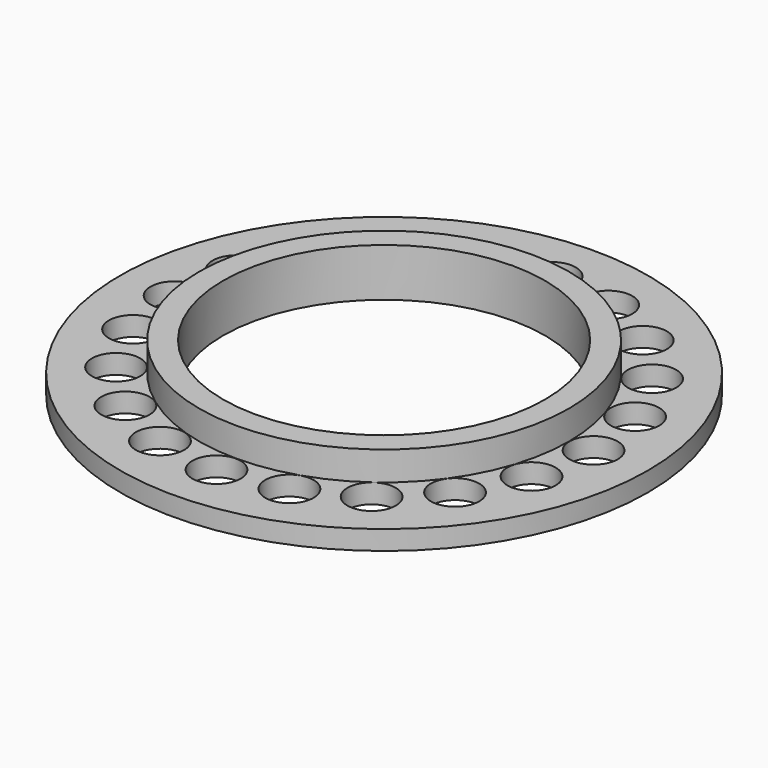
from build123d import *

# Parameters (mm, degrees)
F0_R     = 16.4
F0_R_2   = 11.5
F1_DEPTH = 1.2
F0_R_3   = 10
F2_DEPTH = 3
F3_R     = 1.500919
F4_DEPTH = 25


with BuildPart() as f1:
    # F0 (on Top) → F1 (new body)
    with BuildSketch(Plane.XY):
        with Locations((-45.598116, 14.504182)):
            Circle(F0_R)
        with Locations((-45.598116, 14.504182)):
            Circle(F0_R_2, mode=Mode.SUBTRACT)
    extrude(amount=F1_DEPTH)

    # F0 (on Top) → F2 (join)
    with BuildSketch(Plane.XY):
        with Locations((-45.598116, 14.504182)):
            Circle(F0_R_2)
        with Locations((-45.598116, 14.504182)):
            Circle(F0_R_3, mode=Mode.SUBTRACT)
    extrude(amount=F2_DEPTH)

    # F3 (on face) → F4 (cut)
    with BuildSketch(Plane.XY.offset(1.2)):
        with Locations((-45.598116, 27.51958)):
            Circle(F3_R)
        with Locations((-49.620095, 26.882561)):
            Circle(F3_R)
        with Locations((-53.248375, 25.03386)):
            Circle(F3_R)
        with Locations((-56.127794, 22.154441)):
            Circle(F3_R)
        with Locations((-57.976495, 18.526161)):
            Circle(F3_R)
        with Locations((-58.613514, 14.504182)):
            Circle(F3_R)
        with Locations((-57.976495, 10.482203)):
            Circle(F3_R)
        with Locations((-56.127794, 6.853923)):
            Circle(F3_R)
        with Locations((-53.248375, 3.974504)):
            Circle(F3_R)
        with Locations((-49.620095, 2.125803)):
            Circle(F3_R)
        with Locations((-45.598116, 1.488784)):
            Circle(F3_R)
        with Locations((-41.576137, 2.125803)):
            Circle(F3_R)
        with Locations((-37.947857, 3.974504)):
            Circle(F3_R)
        with Locations((-35.068438, 6.853923)):
            Circle(F3_R)
        with Locations((-33.219737, 10.482203)):
            Circle(F3_R)
        with Locations((-32.582718, 14.504182)):
            Circle(F3_R)
        with Locations((-33.219737, 18.526161)):
            Circle(F3_R)
        with Locations((-35.068438, 22.154441)):
            Circle(F3_R)
        with Locations((-37.947857, 25.03386)):
            Circle(F3_R)
        with Locations((-41.576137, 26.882561)):
            Circle(F3_R)
    extrude(amount=-F4_DEPTH, mode=Mode.SUBTRACT)


solid = f1.part
